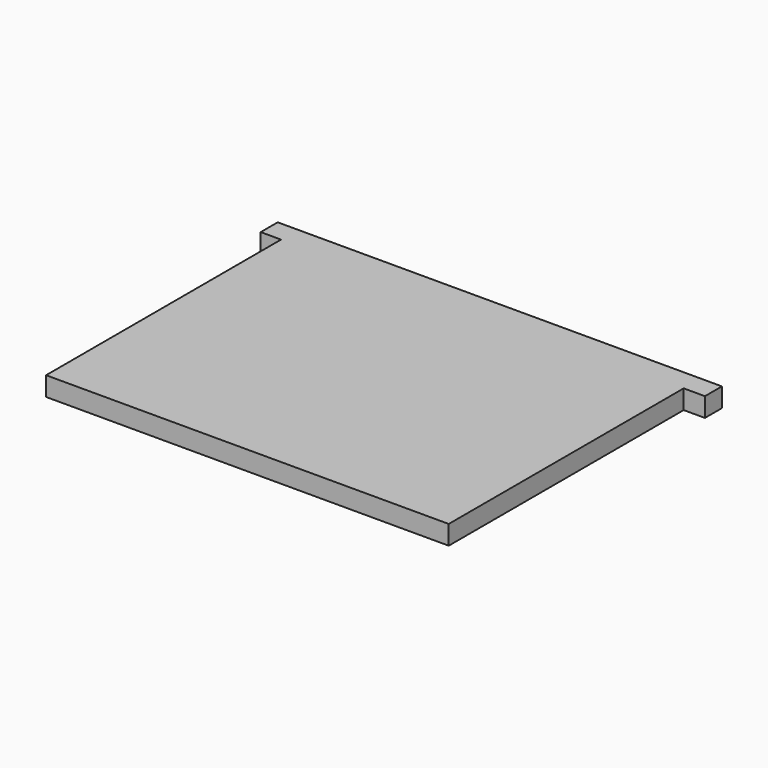
from build123d import *

# Parameters (mm, degrees)
F0_W     = 5.116921
F0_H     = 5.349506
F0_W_2   = 5.349502
F1_DEPTH = 4.826


with BuildPart() as f1:
    # F0 (on Top) → F1 (new body)
    with BuildSketch(Plane.XY):
        Polygon((62.56596, 39.772414), (-38.842063, 39.772414), (-38.842063, 34.422908), (-38.842063, -39.539825), (62.56596, -39.539825), (62.56596, 34.422908), align=None)
        with Locations((-41.400523, 37.097661)):
            Rectangle(F0_W, F0_H)
        with Locations((65.240711, 37.097661)):
            Rectangle(F0_W_2, F0_H)
    extrude(amount=F1_DEPTH)


solid = f1.part
